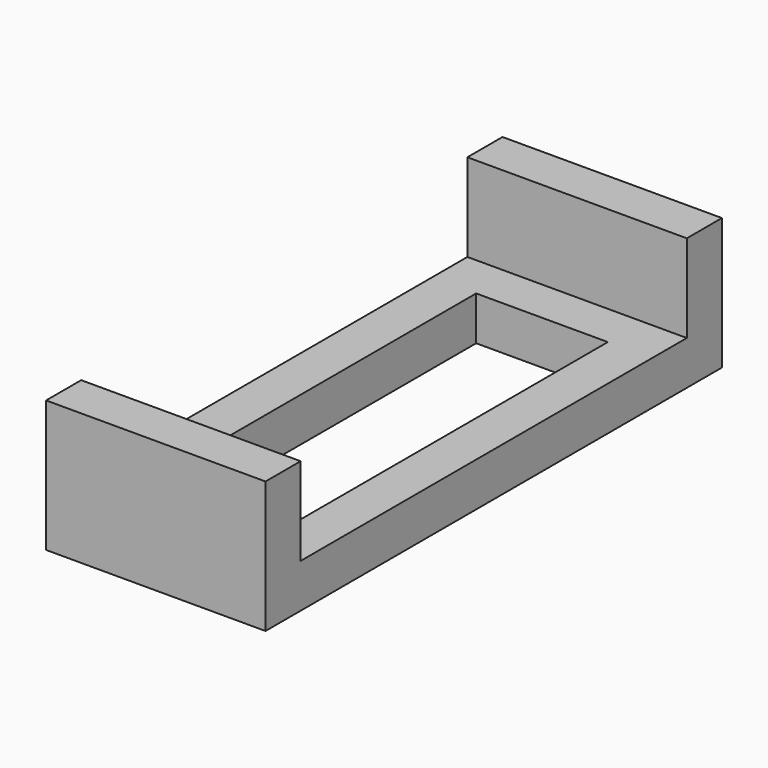
from build123d import *

# Parameters (mm, degrees)
BOX005_W     = 3
BOX005_H     = 9
BOX005_DEPTH = 10
BOX004_W     = 5
BOX004_H     = 11
BOX004_DEPTH = 2
BOX003_W     = 5
BOX003_H     = 13
BOX003_DEPTH = 3


with BuildPart() as cube005:
    # Box005 → Box005 (new body)
    with BuildSketch(Plane(origin=(-4, 1, -1), x_dir=(1, 0, 0), z_dir=(0, 0, 1))):
        with Locations((1.5, 4.5)):
            Rectangle(BOX005_W, BOX005_H)
    extrude(amount=BOX005_DEPTH)


with BuildPart() as cube004:
    # Box004 → Box004 (new body)
    with BuildSketch(Plane(origin=(-5, 0, 0), x_dir=(1, 0, 0), z_dir=(0, 0, 1))):
        with Locations((2.5, 5.5)):
            Rectangle(BOX004_W, BOX004_H)
    extrude(amount=BOX004_DEPTH)


with BuildPart() as cut003:
    # Box003 → Box003 (new body)
    with BuildSketch(Plane(origin=(-5, -1, -1), x_dir=(1, 0, 0), z_dir=(0, 0, 1))):
        with Locations((2.5, 6.5)):
            Rectangle(BOX003_W, BOX003_H)
    extrude(amount=BOX003_DEPTH)

    # Cut002: cut Cube004
    add(cube004.part, mode=Mode.SUBTRACT)

    # Cut003: cut Cube005
    add(cube005.part, mode=Mode.SUBTRACT)


with BuildPart() as cut003_1:
    # Cut003 placement: moved
    add(cut003.part.moved(Location((0, 0, 1))))


solid = cut003_1.part
